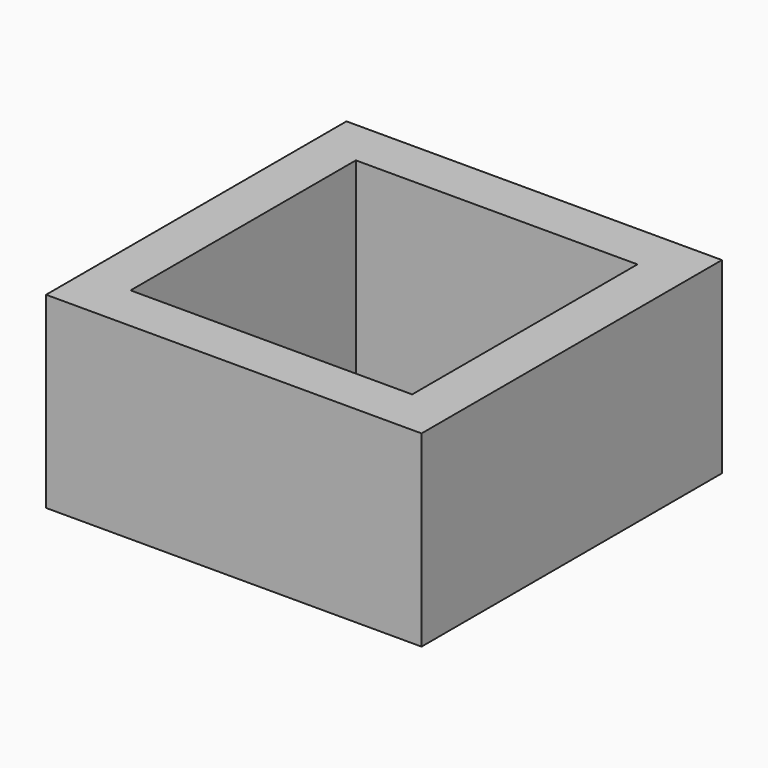
from build123d import *

# Parameters (mm, degrees)
F0_R     = 7.5
F1_DEPTH = 0.4
F3_W     = 20
F3_H     = 20
F4_DEPTH = 10
F5_W     = 15
F5_H     = 15
F6_DEPTH = 25


with BuildPart() as f1:
    # F0 (on Top) → F1 (new body)
    with BuildSketch(Plane.XY):
        Circle(F0_R)
    extrude(amount=F1_DEPTH)


with BuildPart() as f4:
    # F3 (on Top) → F4 (new body)
    with BuildSketch(Plane.XY):
        with Locations((-13.5248391889, 9.9285685438)):
            Rectangle(F3_W, F3_H)
    extrude(amount=F4_DEPTH)

    # F5 (on face) → F6 (cut)
    with BuildSketch(Plane.XY.offset(10)):
        with Locations((-13.5248391889, 9.9285685438)):
            Rectangle(F5_W, F5_H)
    extrude(amount=-F6_DEPTH, mode=Mode.SUBTRACT)


solid = f4.part
